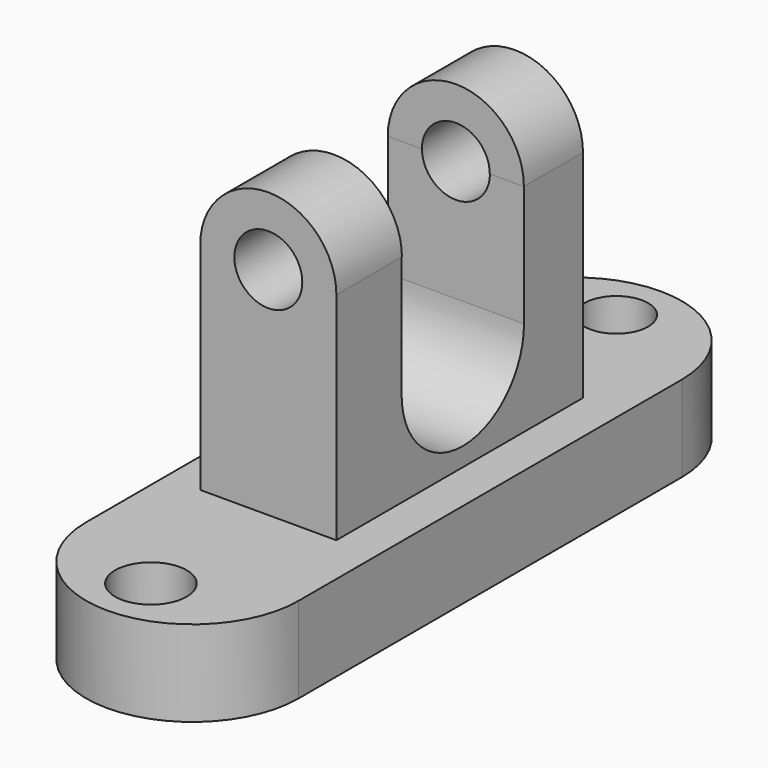
from build123d import *

# Parameters (mm, degrees)
F0_W      = 67.2008618712
F0_H      = 151.4808684587
F0_R      = 10.082645717
F0_R_2    = 11.3219801377
F1_DEPTH  = 27.178
F2_W      = 43.0387500674
F2_H      = 97.4754467607
F3_DEPTH  = 68.326
F4_W      = 48.377899453
F4_H      = 38.2418624678
F5_DEPTH  = 120.904
F7_DEPTH  = 22.352
F8_DEPTH  = 1.016
F10_DEPTH = 25.908
F11_R     = 10.7410584699
F12_DEPTH = 138.938


with BuildPart() as f1:
    # F0 (on Top) → F1 (new body)
    with BuildSketch(Plane.XY):
        with Locations((0.662881881, 0.175178051)):
            Rectangle(F0_W, F0_H)
        with BuildLine():
            ThreePointArc((34.2633128166, 75.9156122804), (0.662881881, 109.516043216), (-32.9375490546, 75.9156122804))
            Line((-32.9375490546, 75.9156122804), (34.2633128166, 75.9156122804))
        make_face()
        with Locations((0, 92.8106307983)):
            Circle(F0_R, mode=Mode.SUBTRACT)
        with BuildLine():
            Line((34.2633128166, -75.5652561784), (-32.9375490546, -75.5652561784))
            ThreePointArc((-32.9375490546, -75.5652561784), (0.662881881, -109.165687114), (34.2633128166, -75.5652561784))
        make_face()
        with Locations((0, -91.1173969507)):
            Circle(F0_R_2, mode=Mode.SUBTRACT)
    extrude(amount=F1_DEPTH)

    # F2 (on face) → F3 (join)
    with BuildSketch(Plane.XY.offset(27.178)):
        with Locations((-0.206517987, 4.2744092643)):
            Rectangle(F2_W, F2_H)
    extrude(amount=F3_DEPTH)

    # F4 (on face) → F5 (cut)
    with BuildSketch(Plane.YZ.offset(21.3128570467)):
        with Locations((5.5104782805, 76.3830687661)):
            Rectangle(F4_W, F4_H)
        with BuildLine():
            Line((29.699428007, 57.2621375322), (-18.678471446, 57.2621375322))
            ThreePointArc((-18.678471446, 57.2621375322), (5.5104782805, 33.0731878057), (29.699428007, 57.2621375322))
        make_face()
    extrude(amount=-F5_DEPTH, mode=Mode.SUBTRACT)

    # F6 (on face) → F7 (join)
    with BuildSketch(Plane(origin=(0, 53.0121326447, 0), x_dir=(-1, 0, 0), z_dir=(0, 1, 0))):
        with BuildLine():
            Line((-21.3128570467, 95.504), (21.7258930206, 95.504))
            ThreePointArc((21.7258930206, 95.504), (0.206517987, 117.0233750337), (-21.3128570467, 95.504))
        make_face()
    extrude(amount=-F7_DEPTH)

    # F8 (add): a face of the model
    f8_faces = [f1.faces().sort_by_distance(p)[0] for p in [
        (-0.206517987, 30.6601326447, 104.6371064236),
    ]]
    extrude(f8_faces, amount=F8_DEPTH)

    # F9 (on face) → F10 (join)
    with BuildSketch(Plane.XZ.offset(44.463314116)):
        with BuildLine():
            Line((-21.7258930206, 95.504), (21.3128570467, 95.504))
            ThreePointArc((21.3128570467, 95.504), (-0.206517987, 117.0233750337), (-21.7258930206, 95.504))
        make_face()
    extrude(amount=-F10_DEPTH)

    # F11 (on face) → F12 (cut)
    with BuildSketch(Plane.XZ.offset(44.463314116)):
        with Locations((-0.206517987, 95.504)):
            Circle(F11_R)
    extrude(amount=-F12_DEPTH, mode=Mode.SUBTRACT)


solid = f1.part
